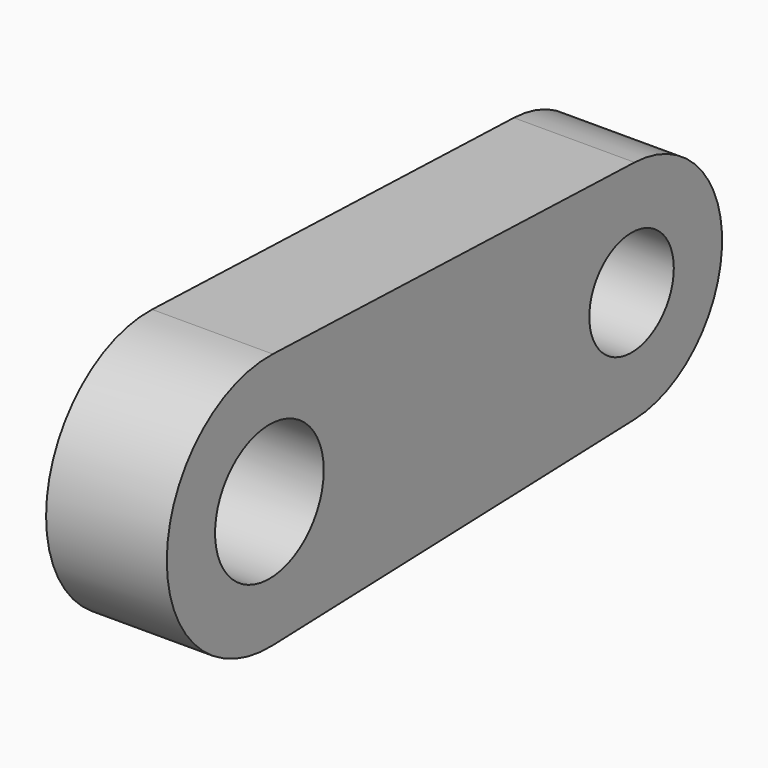
from build123d import *

# Parameters (mm, degrees)
F1_R     = 2.25
F1_R_2   = 1.75
F2_DEPTH = 4


with BuildPart() as f2:
    # F1 (on Right) → F2 (new body)
    with BuildSketch(Plane.YZ):
        with BuildLine():
            Line((15.125, 3.747916), (0.141667, 4.247638))
            ThreePointArc((0.141667, 4.247638), (-4.25, 0), (0.141667, -4.247638))
            Line((0.141667, -4.247638), (15.125, -3.747916))
            ThreePointArc((15.125, -3.747916), (18.75, 0), (15.125, 3.747916))
        make_face()
        Circle(F1_R, mode=Mode.SUBTRACT)
        with Locations((15, 0)):
            Circle(F1_R_2, mode=Mode.SUBTRACT)
    extrude(amount=F2_DEPTH)


solid = f2.part
